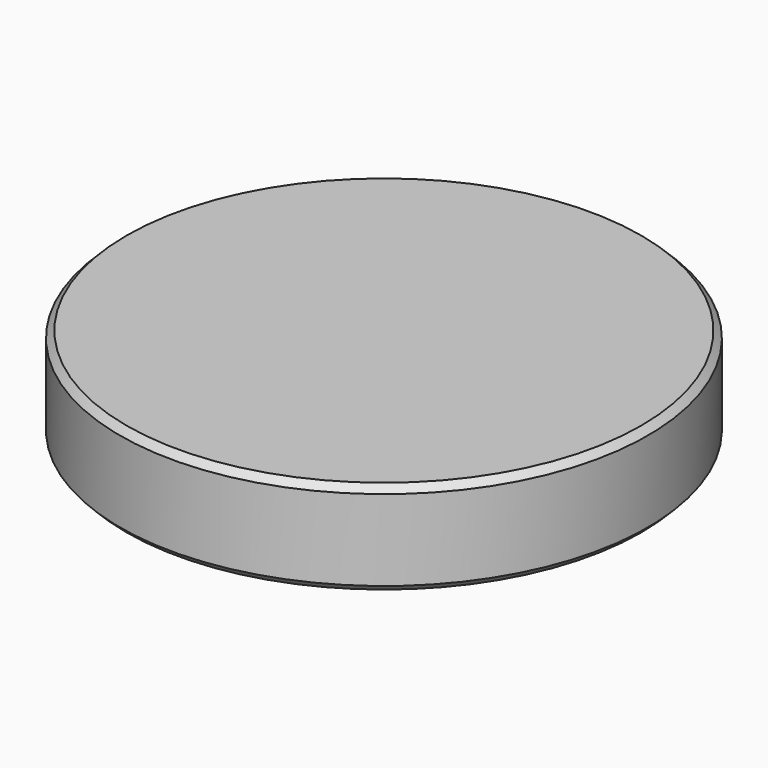
from build123d import *

# Parameters (mm, degrees)
F2_SIZE  = 1.27
F4_DEPTH = 7
F5_SIZE  = 1.27


with BuildPart() as f1:
    # F0 (on Front) → F1 (revolve)
    with BuildSketch(Plane.XZ):
        Polygon((0, 0), (0, 3.1056862596), (-50.8, 3.1056862596), (-50.8, -15), (-46.4363807935, -15), (-46.4363807935, -5.7271113946), (-1, -5.7271113946), (-1, 0), align=None)
    revolve(axis=Axis((0, 0, 4.3935226277), (0, 0, -1)))

    # F2
    f2_edges = [f1.edges().sort_by_distance(p)[0] for p in [
        (50.8, 0, 3.105686),
    ]]
    chamfer(f2_edges, length=F2_SIZE)

    # F3 (on face) → F4 (cut)
    with BuildSketch(Plane(origin=(0, 0, -5.7271113946), x_dir=(1, 0, 0), z_dir=(0, 0, -1))):
        with BuildLine():
            ThreePointArc((-2.9705407732, -0.4193894549), (-3.2616732298, -2.4306384889), (-1.4550762114, -1.5))
            Line((-1.4550762114, -1.5), (1.4550762114, -1.5))
            ThreePointArc((1.4550762114, -1.5), (3.2616732298, -2.4306384889), (2.9705407732, -0.4193894549))
            ThreePointArc((2.9705407732, -0.4193894549), (0, 3), (-2.9705407732, -0.4193894549))
        make_face()
    extrude(amount=-F4_DEPTH, mode=Mode.SUBTRACT)

    # F5
    f5_edges = [f1.edges().sort_by_distance(p)[0] for p in [
        (50.8, 0, -15),
    ]]
    chamfer(f5_edges, length=F5_SIZE)


solid = f1.part
